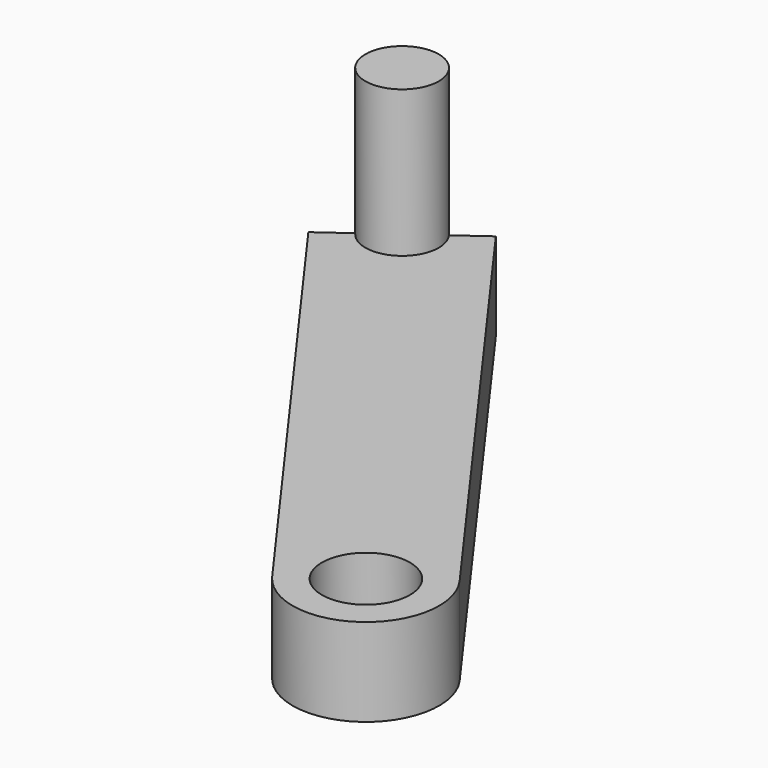
from build123d import *

# Parameters (mm, degrees)
F1_DEPTH = 3
F2_DEPTH = 8


with BuildPart() as f1:
    # F0 (on Top) → F1 (new body)
    with BuildSketch(Plane.XY):
        with BuildLine():
            Line((9.0049726071, -7.0309513933), (-2.6567859811, 9.0890424849))
            Line((-2.6567859811, 9.0890424849), (-3.6695519816, 8.3563726902))
            ThreePointArc((-3.6695519816, 8.3563726902), (-3.4931044815, 8.0087629553), (-3.4323179822, 7.6237028955))
            ThreePointArc((-3.4323179822, 7.6237028955), (-4.2972579225, 6.4344893948), (-5.6950839828, 6.8910331008))
            Line((-5.6950839828, 6.8910331008), (-6.7078499834, 6.1583633061))
            Line((-6.7078499834, 6.1583633061), (4.9539086048, -9.961630572))
            ThreePointArc((4.9539086048, -9.961630572), (5.5141010165, -6.4707589815), (9.0049726071, -7.0309513933))
        make_face()
        with BuildLine():
            ThreePointArc((9.4794406059, -8.4962909826), (9.3578676074, -7.7261708631), (9.0049726071, -7.0309513933))
            Line((9.0049726071, -7.0309513933), (8.1947598066, -7.617087229))
            ThreePointArc((8.1947598066, -7.617087229), (8.4064968068, -8.0342189109), (8.4794406059, -8.4962909826))
            ThreePointArc((8.4794406059, -8.4962909826), (7.4415126777, -9.9233471835), (5.7641214052, -9.3754947363))
            Line((5.7641214052, -9.3754947363), (4.9539086048, -9.961630572))
            ThreePointArc((4.9539086048, -9.961630572), (7.7495607255, -10.8747179841), (9.4794406059, -8.4962909826))
        make_face()
        with BuildLine():
            Line((8.1947598066, -7.617087229), (9.0049726071, -7.0309513933))
            ThreePointArc((9.0049726071, -7.0309513933), (5.5141010165, -6.4707589815), (4.9539086048, -9.961630572))
            Line((4.9539086048, -9.961630572), (5.7641214052, -9.3754947363))
            ThreePointArc((5.7641214052, -9.3754947363), (6.1002368523, -7.2809717819), (8.1947598066, -7.617087229))
        make_face()
        with BuildLine():
            ThreePointArc((-3.4323179822, 7.6237028955), (-3.4931044815, 8.0087629553), (-3.6695519816, 8.3563726902))
            Line((-3.6695519816, 8.3563726902), (-5.6950839828, 6.8910331008))
            ThreePointArc((-5.6950839828, 6.8910331008), (-4.2972579225, 6.4344893948), (-3.4323179822, 7.6237028955))
        make_face()
        with BuildLine():
            Line((-5.6950839828, 6.8910331008), (-3.6695519816, 8.3563726902))
            ThreePointArc((-3.6695519816, 8.3563726902), (-5.4149877769, 8.6364688961), (-5.6950839828, 6.8910331008))
        make_face()
    extrude(amount=F1_DEPTH)

    # F0 (on Top) → F2 (join)
    with BuildSketch(Plane.XY):
        with BuildLine():
            ThreePointArc((-3.4323179822, 7.6237028955), (-3.4931044815, 8.0087629553), (-3.6695519816, 8.3563726902))
            Line((-3.6695519816, 8.3563726902), (-5.6950839828, 6.8910331008))
            ThreePointArc((-5.6950839828, 6.8910331008), (-4.2972579225, 6.4344893948), (-3.4323179822, 7.6237028955))
        make_face()
        with BuildLine():
            Line((-5.6950839828, 6.8910331008), (-3.6695519816, 8.3563726902))
            ThreePointArc((-3.6695519816, 8.3563726902), (-5.4149877769, 8.6364688961), (-5.6950839828, 6.8910331008))
        make_face()
    extrude(amount=F2_DEPTH)


solid = f1.part
